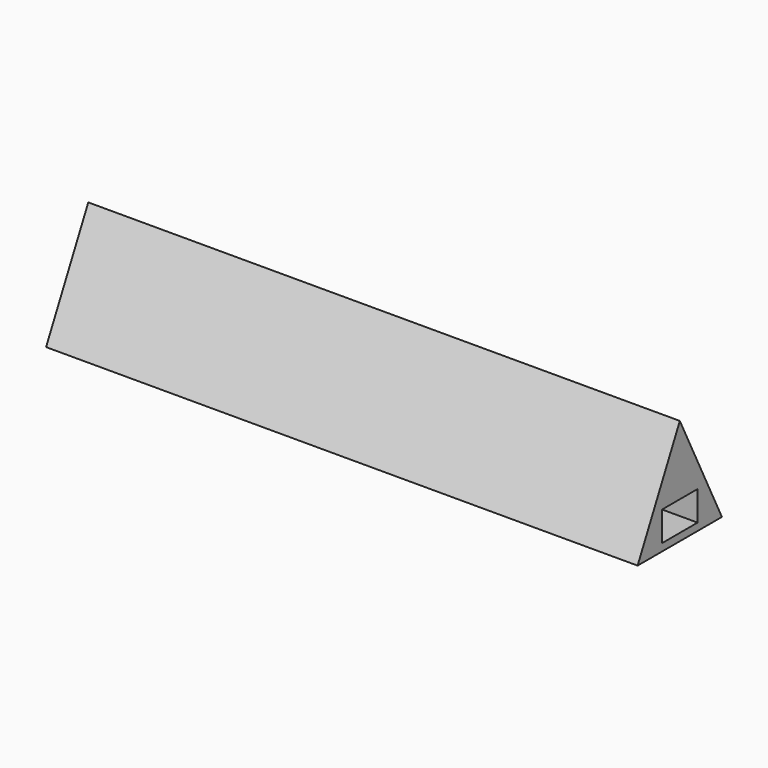
from build123d import *

# Parameters (mm, degrees)
F0_W     = 76.2
F0_H     = 50.8
F1_DEPTH = 1016


with BuildPart() as f1:
    # F0 (on Right) → F1 (new body)
    with BuildSketch(Plane.YZ):
        Polygon((0, 91.370057), (-90.625222, -90.625168), (90.376866, -90.625168), align=None)
        with Locations((0, -52.525168)):
            Rectangle(F0_W, F0_H, mode=Mode.SUBTRACT)
    extrude(amount=F1_DEPTH)


solid = f1.part
